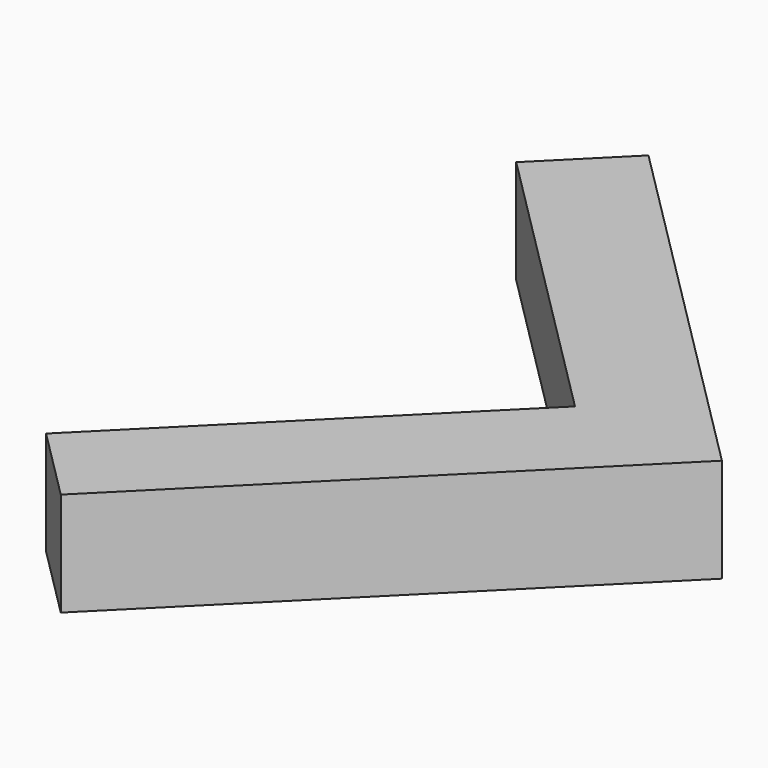
from build123d import *

# Parameters (mm, degrees)
BOX081_W               = 1
BOX081_H               = 5
BOX081_DEPTH           = 1
BOX081_PLACEMENT_ANGLE = 45
BOX084_W               = 1
BOX084_H               = 4
BOX084_DEPTH           = 1
BOX084_PLACEMENT_ANGLE = 135


with BuildPart() as cube081:
    # Box081 → Box081 (new body)
    with BuildSketch(Plane.XY):
        with Locations((0.5, 2.5)):
            Rectangle(BOX081_W, BOX081_H)
    extrude(amount=BOX081_DEPTH)


with BuildPart() as cube081_1:
    # Box081 placement: moved
    add(cube081.part.rotate(Axis((0, 0, 0), (0, 0, 1)), BOX081_PLACEMENT_ANGLE))


with BuildPart() as obj1:
    # Box084 → Box084 (new body)
    with BuildSketch(Plane.XY):
        with Locations((0.5, 2)):
            Rectangle(BOX084_W, BOX084_H)
    extrude(amount=BOX084_DEPTH)


with BuildPart() as obj1_1:
    # Box084 placement: moved
    add(obj1.part.rotate(Axis((0, 0, 0), (0, 0, 1)), BOX084_PLACEMENT_ANGLE))

    # Fusion015: union Cube081
    add(cube081_1.part)


with BuildPart() as obj1_2:
    # Fusion015 placement: moved
    add(obj1_1.part.moved(Location((16, 5, 0))))


solid = obj1_2.part
